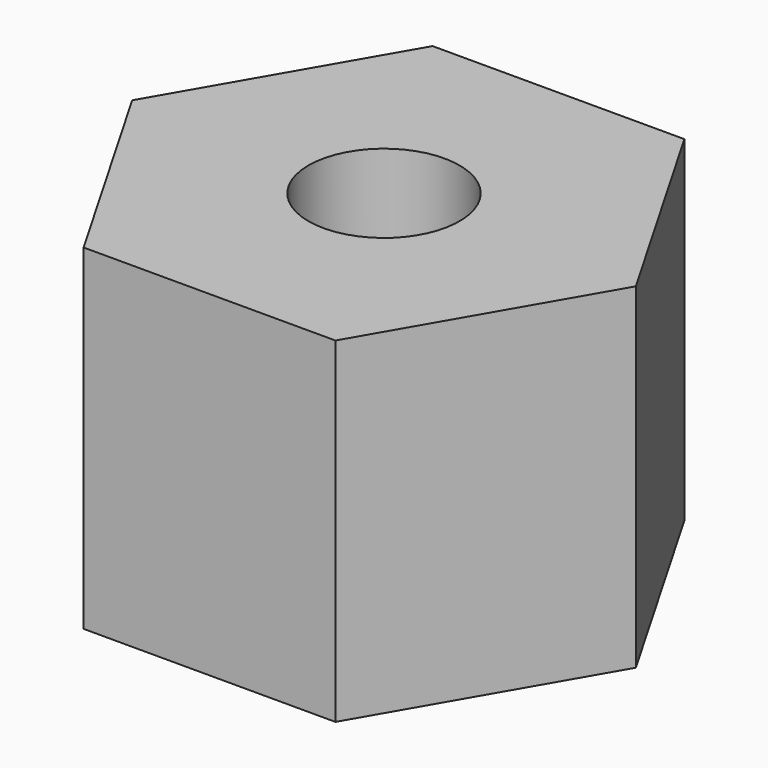
from build123d import *

# Parameters (mm, degrees)
F0_R     = 1.5
F1_DEPTH = 6
F2_D     = 2.7


with BuildPart() as f1:
    # F0 (on Top) → F1 (new body)
    with BuildSketch(Plane.XY):
        Polygon((2.25, -3.897114317), (4.5, 0), (2.25, 3.897114317), (-2.25, 3.897114317), (-4.5, 0), (-2.25, -3.897114317), align=None)
        Circle(F0_R, mode=Mode.SUBTRACT)
        Circle(F0_R)
    extrude(amount=F1_DEPTH)

    # F2 (through all)
    with Locations(Plane(origin=(0, 0, 0), x_dir=(1, 0, 0), z_dir=(0, 0, -1))):
        with Locations((0, 0)):
            Hole(F2_D / 2)


solid = f1.part
